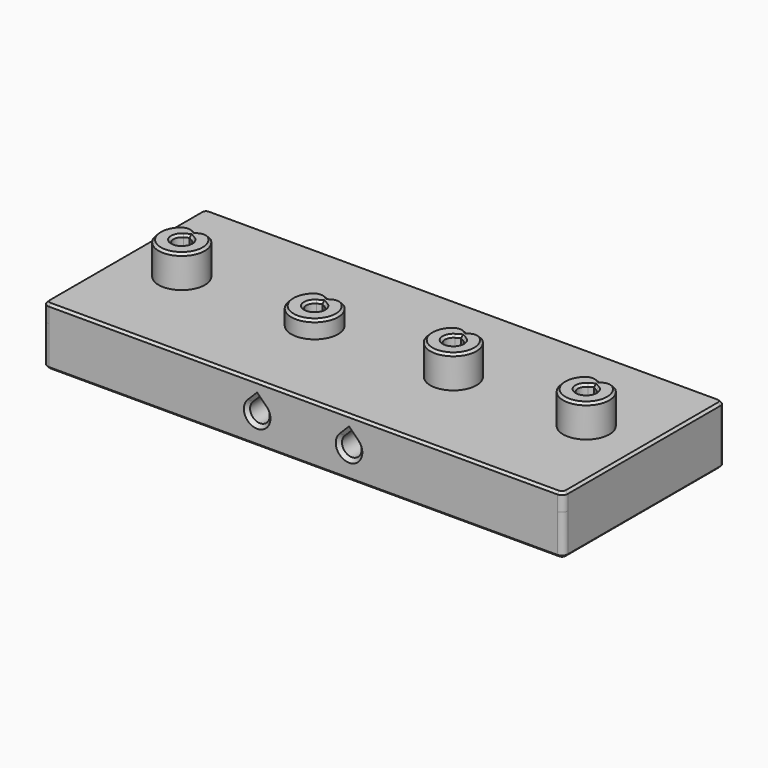
from build123d import *

# Parameters (mm, degrees)
SKETCH_W                = 90
SKETCH_H                = 35
PAD_DEPTH               = 3
SKETCH001_R             = 10.5
HOLE_DEPTH              = 25
HOLE_TEARDROPS_DEPTH    = 25
SKETCH002_R             = 4
PAD001_DEPTH            = 5.6
POCKET_DEPTH            = 5.6
SKETCH004_R             = 1.45
HOLE001_DEPTH           = 25
HOLE001_TEARDROPS_DEPTH = 25
FILLET_R                = 2
CHAMFER_SIZE            = 0.4
FILLET001_R             = 1
PAD002_DEPTH            = 7
SKETCH005_R             = 14.71653
PAD003_DEPTH            = 10
SKETCH006_R             = 4.05
PAD004_DEPTH            = 3
POCKET001_DEPTH         = 3
SKETCH008_R             = 1.45
HOLE002_DEPTH           = 25
HOLE002_TEARDROPS_DEPTH = 25
FILLET002_R             = 2
CHAMFER001_SIZE         = 0.4
CHAMFER002_SIZE         = 0.4
CHAMFER003_SIZE         = 0.6
SKETCH009_R             = 1.7
HOLE003_DEPTH           = 87
HOLE003_TEARDROPS_DEPTH = 87
CHAMFER004_SIZE         = 0.6


with BuildPart() as part:
    # Sketch → Pad (new body)
    with BuildSketch(Plane.XY):
        Rectangle(SKETCH_W, SKETCH_H)
    extrude(amount=PAD_DEPTH)

    # Sketch001 (on Face6 of Pad) → Hole (cut)
    with BuildSketch(Plane.XY.offset(3)):
        with Locations((-12, 0)):
            Circle(SKETCH001_R)
    extrude(amount=-HOLE_DEPTH, mode=Mode.SUBTRACT)

    # Sketch001_Teardrops (on Sketch) → Hole_Teardrops (cut)
    with BuildSketch(Plane.XY.offset(3)):
        with BuildLine():
            ThreePointArc((-17.25, 9.093267), (-12, -10.5), (-6.75, 9.093267))
            Line((-6.75, 9.093267), (-12, 12.124356))
            Line((-17.25, 9.093267), (-12, 12.124356))
        make_face()
    extrude(amount=-HOLE_TEARDROPS_DEPTH, mode=Mode.SUBTRACT)

    # Sketch002 (on Face5 of Hole_Teardrops) → Pad001 (join)
    with BuildSketch(Plane.XY.offset(3)):
        with Locations((35, 0)):
            Circle(SKETCH002_R)
        with Locations((12, 0)):
            Circle(SKETCH002_R)
        with Locations((-35, 0)):
            Circle(SKETCH002_R)
    extrude(amount=PAD001_DEPTH)

    # Sketch003 (on Face13 of Pad001) → Pocket (cut)
    with BuildSketch(Plane.XY.offset(8.6)):
        Polygon((-35, 3), (-38.464102, 5), (-31.535898, 5), align=None)
        Polygon((12, 3), (8.535898, 5), (15.464102, 5), align=None)
        Polygon((38.464102, 5), (35, 3), (31.535898, 5), align=None)
    extrude(amount=-POCKET_DEPTH, mode=Mode.SUBTRACT)

    # Sketch004 (on Face17 of Pocket) → Hole001 (cut)
    with BuildSketch(Plane.XY.offset(8.6)):
        with Locations((-35, 0)):
            Circle(SKETCH004_R)
        with Locations((12, 0)):
            Circle(SKETCH004_R)
        with Locations((35, 0)):
            Circle(SKETCH004_R)
    extrude(amount=-HOLE001_DEPTH, mode=Mode.SUBTRACT)

    # Sketch004_Teardrops (on Sketch) → Hole001_Teardrops (cut)
    with BuildSketch(Plane.XY.offset(8.6)):
        with BuildLine():
            ThreePointArc((-35.725, 1.255737), (-35, -1.45), (-34.275, 1.255737))
            Line((-34.275, 1.255737), (-35, 1.674316))
            Line((-35.725, 1.255737), (-35, 1.674316))
        make_face()
        with BuildLine():
            ThreePointArc((11.275, 1.255737), (12, -1.45), (12.725, 1.255737))
            Line((12.725, 1.255737), (12, 1.674316))
            Line((11.275, 1.255737), (12, 1.674316))
        make_face()
        with BuildLine():
            ThreePointArc((34.275, 1.255737), (35, -1.45), (35.725, 1.255737))
            Line((35.725, 1.255737), (35, 1.674316))
            Line((34.275, 1.255737), (35, 1.674316))
        make_face()
    extrude(amount=-HOLE001_TEARDROPS_DEPTH, mode=Mode.SUBTRACT)

    # Fillet
    fillet_edges = [part.edges().sort_by_distance(p)[0] for p in [
        (36.334875, 3.770691, 5.8),
        (33.665125, 3.770691, 5.8),
        (13.334875, 3.770691, 5.8),
        (10.665125, 3.770691, 5.8),
        (-33.665125, 3.770691, 5.8),
        (-36.334875, 3.770691, 5.8),
    ]]
    fillet(fillet_edges, radius=FILLET_R)

    # Chamfer
    chamfer_edges = [part.edges().sort_by_distance(p)[0] for p in [
        (33.392214, -3.662653, 8.6),
        (10.392214, -3.662653, 8.6),
        (-36.607786, -3.662653, 8.6),
        (-35.725, -1.255737, 8.6),
        (11.275, -1.255737, 8.6),
        (34.275, -1.255737, 8.6),
    ]]
    chamfer(chamfer_edges, length=CHAMFER_SIZE)

    # Fillet001
    fillet001_edges = [part.edges().sort_by_distance(p)[0] for p in [
        (45, 17.5, 1.5),
        (-45, 17.5, 1.5),
        (-45, -17.5, 1.5),
        (45, -17.5, 1.5),
    ]]
    fillet(fillet001_edges, radius=FILLET001_R)

    # Fillet001 Face28 → Pad002 (add)
    with BuildSketch(Plane(origin=(1.493435, -0.023344, 0), x_dir=(0, -1, 0), z_dir=(0, 0, -1))):
        with BuildLine():
            Line((16.476656, 46.493435), (-16.523344, 46.493435))
            ThreePointArc((-16.523344, 46.493435), (-17.230451, 46.200542), (-17.523344, 45.493435))
            Line((-17.523344, 45.493435), (-17.523344, -42.506565))
            ThreePointArc((-17.523344, -42.506565), (-17.230451, -43.213672), (-16.523344, -43.506565))
            Line((-16.523344, -43.506565), (16.476656, -43.506565))
            ThreePointArc((16.476656, -43.506565), (17.183762, -43.213672), (17.476656, -42.506565))
            Line((17.476656, -42.506565), (17.476656, 45.493435))
            ThreePointArc((17.476656, 45.493435), (17.183762, 46.200542), (16.476656, 46.493435))
        make_face()
        with BuildLine():
            ThreePointArc((-0.023344, 35.043435), (-0.748344, 35.237698), (-1.279081, 35.768435))
            Line((-1.279081, 35.768435), (-1.69766, 36.493435))
            Line((-1.69766, 36.493435), (-1.279081, 37.218435))
            ThreePointArc((-1.279081, 37.218435), (1.232392, 37.218435), (-0.023344, 35.043435))
        make_face(mode=Mode.SUBTRACT)
        with BuildLine():
            ThreePointArc((-0.023344, -11.956565), (-0.748344, -11.762302), (-1.279081, -11.231565))
            Line((-1.279081, -11.231565), (-1.69766, -10.506565))
            Line((-1.69766, -10.506565), (-1.279081, -9.781565))
            ThreePointArc((-1.279081, -9.781565), (1.232392, -9.781565), (-0.023344, -11.956565))
        make_face(mode=Mode.SUBTRACT)
        with BuildLine():
            ThreePointArc((-0.023344, -34.956565), (-0.748344, -34.762302), (-1.279081, -34.231565))
            Line((-1.279081, -34.231565), (-1.69766, -33.506565))
            Line((-1.69766, -33.506565), (-1.279081, -32.781565))
            ThreePointArc((-1.279081, -32.781565), (1.232392, -32.781565), (-0.023344, -34.956565))
        make_face(mode=Mode.SUBTRACT)
        with BuildLine():
            ThreePointArc((-0.023344, 2.993435), (-5.273344, 4.400168), (-9.116611, 8.243435))
            Line((-9.116611, 8.243435), (-12.1477, 13.493435))
            Line((-12.1477, 13.493435), (-9.116611, 18.743435))
            ThreePointArc((-9.116611, 18.743435), (9.069922, 18.743435), (-0.023344, 2.993435))
        make_face(mode=Mode.SUBTRACT)
    extrude(amount=PAD002_DEPTH)

    # Sketch005 (on Face3 of Pad002) → Pad003 (join)
    with BuildSketch(Plane.XY.offset(3)):
        with Locations((-11.639154, 0)):
            Circle(SKETCH005_R)
    extrude(amount=-PAD003_DEPTH)

    # Sketch006 (on Face67 of Pad003) → Pad004 (join)
    with BuildSketch(Plane.XY.offset(3)):
        with Locations((-12, 0)):
            Circle(SKETCH006_R)
    extrude(amount=PAD004_DEPTH)

    # Sketch007 (on Face66 of Pad004) → Pocket001 (cut)
    with BuildSketch(Plane.XY.offset(6)):
        Polygon((-12, 3), (-15.464102, 5), (-8.535898, 5), align=None)
    extrude(amount=-POCKET001_DEPTH, mode=Mode.SUBTRACT)

    # Sketch008 (on Face69 of Pocket001) → Hole002 (cut)
    with BuildSketch(Plane.XY.offset(6)):
        with Locations((-12, 0)):
            Circle(SKETCH008_R)
    extrude(amount=-HOLE002_DEPTH, mode=Mode.SUBTRACT)

    # Sketch008_Teardrops (on Sketch) → Hole002_Teardrops (cut)
    with BuildSketch(Plane.XY.offset(6)):
        with BuildLine():
            ThreePointArc((-12.725, 1.255737), (-12, -1.45), (-11.275, 1.255737))
            Line((-11.275, 1.255737), (-12, 1.674316))
            Line((-12.725, 1.255737), (-12, 1.674316))
        make_face()
    extrude(amount=-HOLE002_TEARDROPS_DEPTH, mode=Mode.SUBTRACT)

    # Fillet002
    fillet002_edges = [part.edges().sort_by_distance(p)[0] for p in [
        (-10.608429, 3.803424, 4.5),
        (-13.391571, 3.803424, 4.5),
    ]]
    fillet(fillet002_edges, radius=FILLET002_R)

    # Chamfer001
    chamfer001_edges = [part.edges().sort_by_distance(p)[0] for p in [
        (-12.725, -1.255737, 6),
        (-13.613716, -3.714623, 6),
    ]]
    chamfer(chamfer001_edges, length=CHAMFER001_SIZE)

    # Chamfer002
    chamfer002_edges = [part.edges().sort_by_distance(p)[0] for p in [
        (0, -17.5, -7),
        (0, -17.5, 3),
    ]]
    chamfer(chamfer002_edges, length=CHAMFER002_SIZE)

    # Chamfer003
    chamfer003_edges = [part.edges().sort_by_distance(p)[0] for p in [
        (11.275, -1.255737, -7),
        (34.275, -1.255737, -7),
        (-12.725, -1.255737, -7),
        (-35.725, -1.255737, -7),
    ]]
    chamfer(chamfer003_edges, length=CHAMFER003_SIZE)

    # Sketch009 (on Face29 of Chamfer003) → Hole003 (cut)
    with BuildSketch(Plane.XZ.offset(17.5)):
        with Locations((-7.95, -2)):
            Circle(SKETCH009_R)
        with Locations((7.95, -2)):
            Circle(SKETCH009_R)
    extrude(amount=-HOLE003_DEPTH, mode=Mode.SUBTRACT)

    # Sketch009_Teardrops (on Sketch) → Hole003_Teardrops (cut)
    with BuildSketch(Plane.XZ.offset(17.5)):
        with BuildLine():
            ThreePointArc((-9.152082, -0.797918), (-7.95, -3.7), (-6.747918, -0.797918))
            Line((-6.747918, -0.797918), (-7.95, 0.404163))
            Line((-9.152082, -0.797918), (-7.95, 0.404163))
        make_face()
        with BuildLine():
            ThreePointArc((6.747918, -0.797918), (7.95, -3.7), (9.152082, -0.797918))
            Line((9.152082, -0.797918), (7.95, 0.404163))
            Line((6.747918, -0.797918), (7.95, 0.404163))
        make_face()
    extrude(amount=-HOLE003_TEARDROPS_DEPTH, mode=Mode.SUBTRACT)

    # Chamfer004
    chamfer004_edges = [part.edges().sort_by_distance(p)[0] for p in [
        (-7.299438, -17.5, -3.570595),
        (8.600562, -17.5, -3.570595),
        (-7.299438, 17.5, -3.570595),
        (8.600562, 17.5, -3.570595),
    ]]
    chamfer(chamfer004_edges, length=CHAMFER004_SIZE)


solid = part.part
